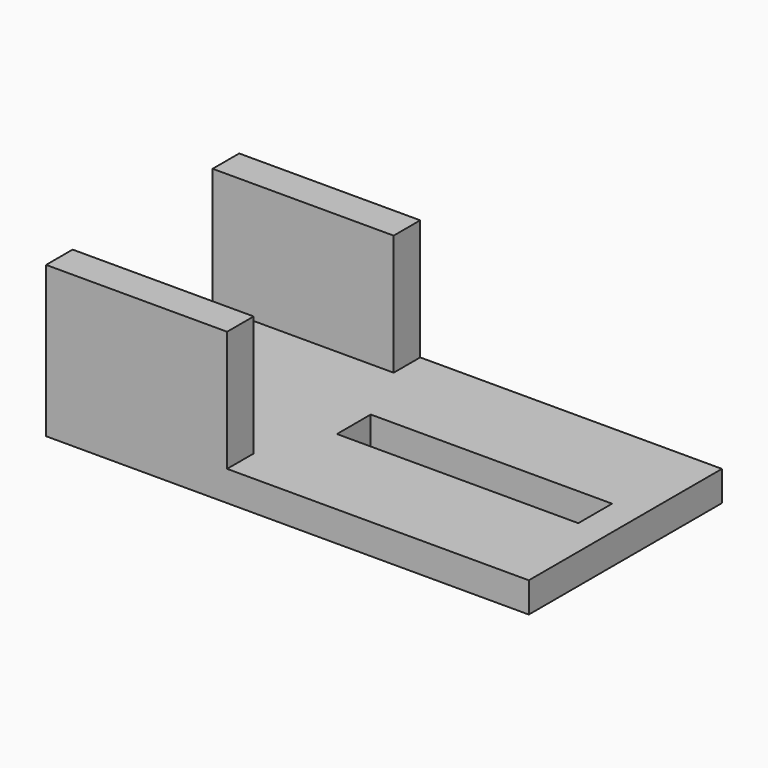
from build123d import *

# Parameters (mm, degrees)
F0_W     = 80
F0_H     = 40
F1_DEPTH = 5
F2_W     = 30
F2_H     = 5.5
F3_DEPTH = 20
F4_W     = 40
F4_H     = 7
F5_DEPTH = 22.4


with BuildPart() as f1:
    # F0 (on Top) → F1 (new body)
    with BuildSketch(Plane.XY):
        Rectangle(F0_W, F0_H)
    extrude(amount=F1_DEPTH)

    # F2 (on face) → F3 (join)
    with BuildSketch(Plane.XY.offset(5)):
        with Locations((-25, -17.25)):
            Rectangle(F2_W, F2_H)
        with Locations((-25, 17.25)):
            Rectangle(F2_W, F2_H)
    extrude(amount=F3_DEPTH)

    # F4 (on face) → F5 (cut)
    with BuildSketch(Plane.XY.offset(5)):
        with Locations((15, 0)):
            Rectangle(F4_W, F4_H)
    extrude(amount=-F5_DEPTH, mode=Mode.SUBTRACT)


solid = f1.part
